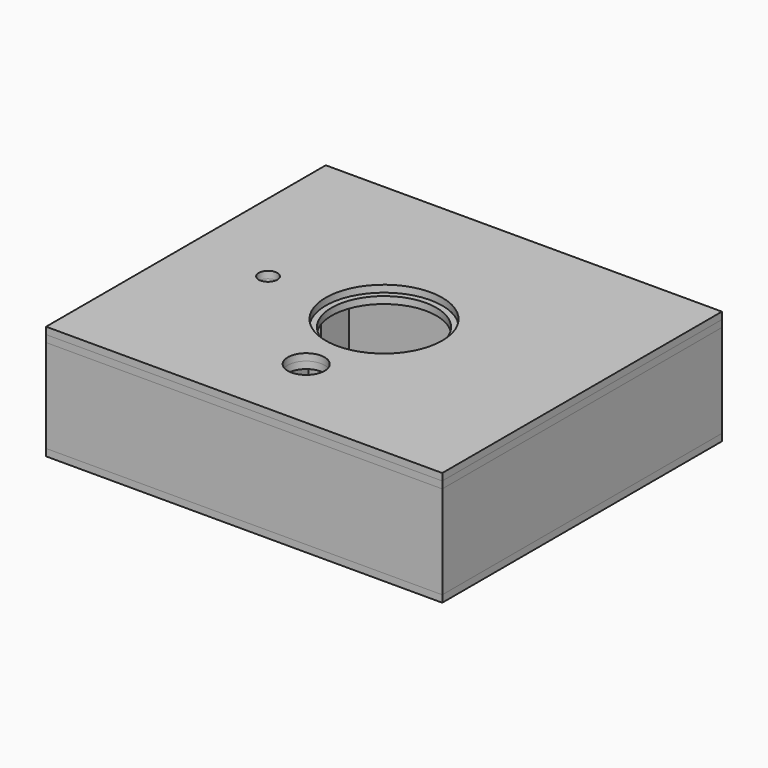
from build123d import *

# Parameters (mm, degrees)
F0_W     = 170
F0_H     = 150
F1_DEPTH = 40
F2_W     = 170
F2_H     = 150
F3_DEPTH = 3
F4_W     = 170
F4_H     = 150
F4_R     = 7.9
F4_R_2   = 4
F4_R_3   = 22.5
F5_DEPTH = 3
F6_W     = 170
F6_H     = 150
F6_R     = 7.9
F6_R_2   = 4
F6_R_3   = 25
F7_DEPTH = 3


with BuildPart() as f1:
    # F0 (on Top) → F1 (new body)
    with BuildSketch(Plane.XY):
        Rectangle(F0_W, F0_H)
        Polygon((-35, 25), (35, 25), (35, -25), (12.5, -25), (12.5, -47), (-12.5, -47), (-12.5, -25), (-35, -25), (-35, -10), (-57.5, -10), (-57.5, 10), (-35, 10), align=None, mode=Mode.SUBTRACT)
    extrude(amount=F1_DEPTH)


with BuildPart() as f3:
    # F2 (on face) → F3 (new body)
    with BuildSketch(Plane(origin=(0, 0, 0), x_dir=(1, 0, 0), z_dir=(0, 0, -1))):
        Rectangle(F2_W, F2_H)
    extrude(amount=F3_DEPTH)


with BuildPart() as f5:
    # F4 (on face) → F5 (new body)
    with BuildSketch(Plane.XY.offset(40)):
        Rectangle(F4_W, F4_H)
        with Locations((0, -41.737828)):
            Circle(F4_R, mode=Mode.SUBTRACT)
        with Locations((-49.769852, 0)):
            Circle(F4_R_2, mode=Mode.SUBTRACT)
        Circle(F4_R_3, mode=Mode.SUBTRACT)
    extrude(amount=F5_DEPTH)


with BuildPart() as f7:
    # F6 (on face) → F7 (new body)
    with BuildSketch(Plane.XY.offset(43)):
        Rectangle(F6_W, F6_H)
        with Locations((0, -41.737828)):
            Circle(F6_R, mode=Mode.SUBTRACT)
        with Locations((-49.769852, 0)):
            Circle(F6_R_2, mode=Mode.SUBTRACT)
        Circle(F6_R_3, mode=Mode.SUBTRACT)
    extrude(amount=F7_DEPTH)


solid = Compound([f1.part, f3.part, f5.part, f7.part])
